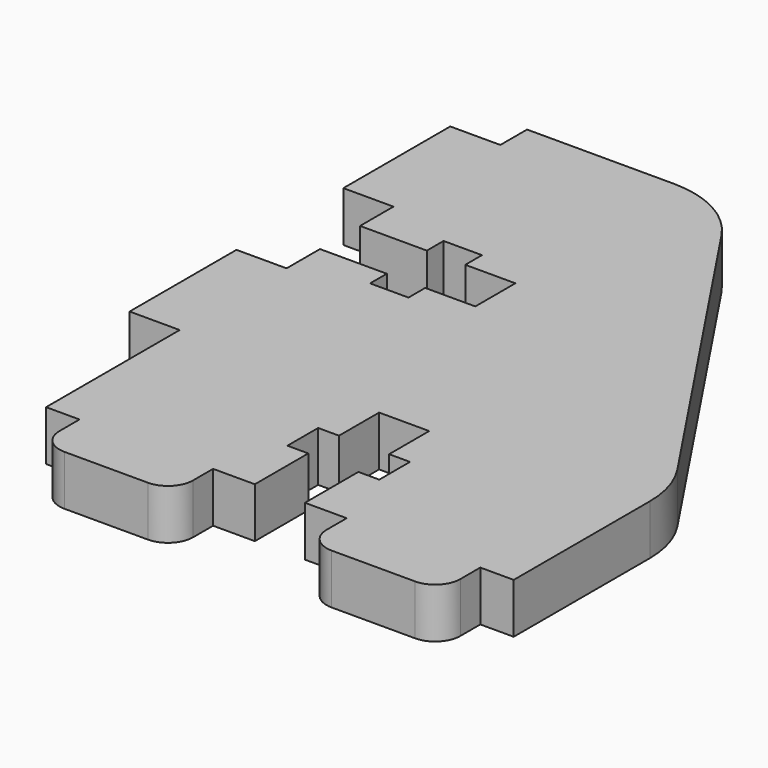
from build123d import *

# Parameters (mm, degrees)
PAD007_DEPTH = 3
FILLET011_R  = 6
FILLET012_R  = 1.5


with BuildPart() as part:
    # Sketch006 → Pad007 (new body)
    with BuildSketch(Plane(origin=(195.5, 0, -1.5), x_dir=(1, 0, 0), z_dir=(0, 0, 1))):
        Polygon((0, 36), (12, 36), (28, 12), (28, 0), (26, 0), (26, -3), (18, -3), (18, 0), (15.5, 0), (15.5, 4), (16.75, 4), (16.75, 6.3), (15.5, 6.3), (15.5, 9.3), (12.5, 9.3), (12.5, 6.3), (11.25, 6.3), (11.25, 4), (12.5, 4), (12.5, 0), (10, 0), (10, -3), (2, -3), (2, 0), (0, 0), (0, 10), (-3, 10), (-3, 18), (0, 18), (0, 20.5), (4, 20.5), (4, 19.25), (6.3, 19.25), (6.3, 20.5), (9.3, 20.5), (9.3, 23.5), (6.3, 23.5), (6.3, 24.75), (4, 24.75), (4, 23.5), (0, 23.5), (0, 26), (-3, 26), (-3, 34), (0, 34), align=None)
    extrude(amount=PAD007_DEPTH)

    # Fillet011
    fillet011_edges = [part.edges().sort_by_distance(p)[0] for p in [
        (207.5, 36, 0),
        (223.5, 12, 0),
    ]]
    fillet(fillet011_edges, radius=FILLET011_R)

    # Fillet012
    fillet012_edges = [part.edges().sort_by_distance(p)[0] for p in [
        (221.5, -3, 0),
        (213.5, -3, 0),
        (205.5, -3, 0),
        (197.5, -3, 0),
    ]]
    fillet(fillet012_edges, radius=FILLET012_R)


solid = part.part
